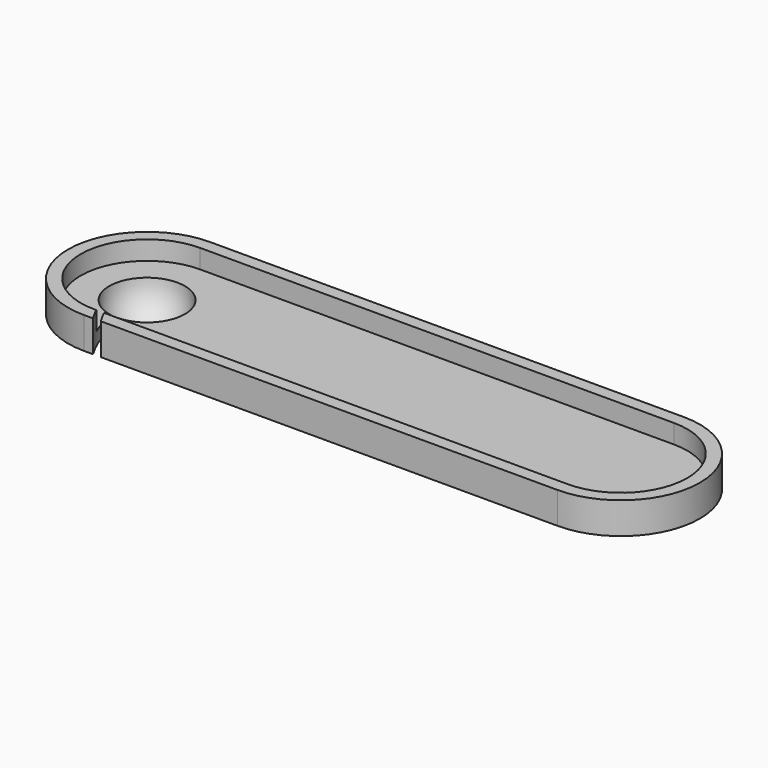
from build123d import *

# Parameters (mm, degrees)
PAD_DEPTH       = 5
THICKNESS_T     = -2
SKETCH001_R     = 1.28632
POCKET_DEPTH    = 7.001
POCKET001_DEPTH = 9.881798


with BuildPart() as part:
    # Sketch → Pad (new body)
    with BuildSketch(Plane.XY):
        with BuildLine():
            ThreePointArc((-37.5, 12.5), (-50, 0), (-37.5, -12.5))
            Line((-37.5, -12.5), (37.5, -12.5))
            ThreePointArc((37.5, -12.5), (50, 0), (37.5, 12.5))
            Line((37.5, 12.5), (-37.5, 12.5))
        make_face()
    extrude(amount=PAD_DEPTH)

    # Thickness
    thickness_openings = [part.faces().sort_by_distance(p)[0] for p in [
        (0, 0, 5),
    ]]
    offset(amount=THICKNESS_T, openings=thickness_openings)

    # Sphere → Sphere (revolve)
    with BuildSketch(Plane(origin=(-37.5, 0, 2), x_dir=(-1, 0, 0), z_dir=(0, 1, 0))):
        with BuildLine():
            ThreePointArc((0, -7), (4.949747, -4.949747), (7, 0))
            Line((7, 0), (0, 0))
            Line((0, 0), (0, -7))
        make_face()
    revolve(axis=Axis((-37.5, 0, 2), (0, 0, 1)))

    # Sphere001 → Sphere001 (revolve, cut)
    with BuildSketch(Plane(origin=(-37.5, 0, 2), x_dir=(-1, 0, 0), z_dir=(0, 1, 0))):
        with BuildLine():
            ThreePointArc((0, -6), (6, 0), (0, 6))
            Line((0, 6), (0, -6))
        make_face()
    revolve(axis=Axis((-37.5, 0, 2), (0, 0, 1)), mode=Mode.SUBTRACT)

    # Sketch001 (on Face12 of Sphere001) → Pocket (cut, through all)
    with BuildSketch(Plane(origin=(-37.5, 0, 2), x_dir=(-1, 0, 0), z_dir=(0, 0, 1))):
        Circle(SKETCH001_R)
    extrude(amount=-POCKET_DEPTH, mode=Mode.SUBTRACT)

    # Sketch002 (on Face5 of Pocket) → Pocket001 (cut, through all)
    with BuildSketch(Plane(origin=(-37.5, 0, 5), x_dir=(-1, 0, 0), z_dir=(0, 0, 1))):
        with BuildLine():
            ThreePointArc((-0.392266, 0), (-0.858786, 8.746469), (-5.81133, 15.97078))
            Line((-5.81133, 15.97078), (-5.640447, 16.956071))
            ThreePointArc((0.607734, 0), (0.068506, 9.430537), (-5.640447, 16.956071))
            Line((-0.392266, 0), (0.607734, 0))
        make_face()
    extrude(amount=-POCKET001_DEPTH, mode=Mode.SUBTRACT)


solid = part.part
